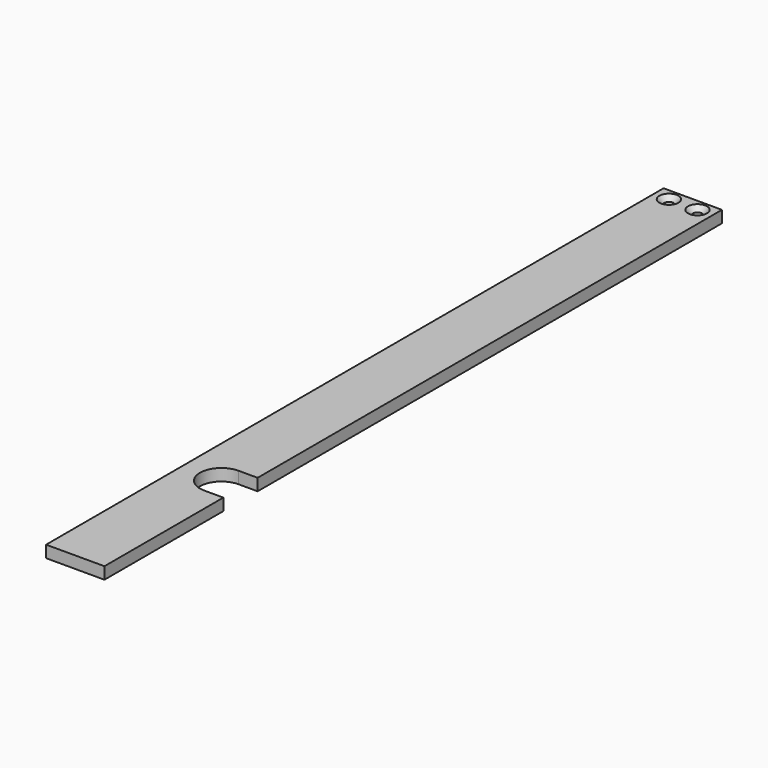
from build123d import *

# Parameters (mm, degrees)
PAD026_DEPTH    = 5
SKETCH058_R     = 2
POCKET036_DEPTH = 5.001
CHAMFER020_SIZE = 2


with BuildPart() as part:
    # Sketch053 → Pad026 (new body)
    with BuildSketch(Plane.XY):
        with BuildLine():
            Line((-81.323184, -45.417713), (-81.323184, -107.8))
            Line((-81.323184, -107.8), (-105.823184, -107.8))
            Line((-105.823184, -107.8), (-105.823184, 216.2))
            Line((-105.823184, 216.2), (-81.323184, 216.2))
            Line((-81.323184, 216.2), (-81.323184, -27.417713))
            Line((-89.323184, -27.417713), (-81.323184, -27.417713))
            ThreePointArc((-89.323184, -27.417713), (-98.323184, -36.417713), (-89.323184, -45.417713))
            Line((-89.323184, -45.417713), (-81.323184, -45.417713))
        make_face()
    extrude(amount=PAD026_DEPTH)

    # Sketch058 (on Face10 of Pad026) → Pocket036 (cut, through all)
    with BuildSketch(Plane.XY.offset(5)):
        with Locations((-99.573184, 211.2)):
            Circle(SKETCH058_R)
        with Locations((-87.573184, 211.2)):
            Circle(SKETCH058_R)
    extrude(amount=-POCKET036_DEPTH, mode=Mode.SUBTRACT)

    # Chamfer020
    chamfer020_edges = [part.edges().sort_by_distance(p)[0] for p in [
        (-89.573184, 211.2, 5),
        (-101.573184, 211.2, 5),
    ]]
    chamfer(chamfer020_edges, length=CHAMFER020_SIZE)


with BuildPart() as part_1:
    # Body019 placement: moved
    add(part.part.moved(Location((-50, 0, 15.5))))


with BuildPart() as part_2:
    # Clone001 placement: moved
    add(part_1.part.moved(Location((195.823184, 107.8, -20.5))))


solid = part_2.part
